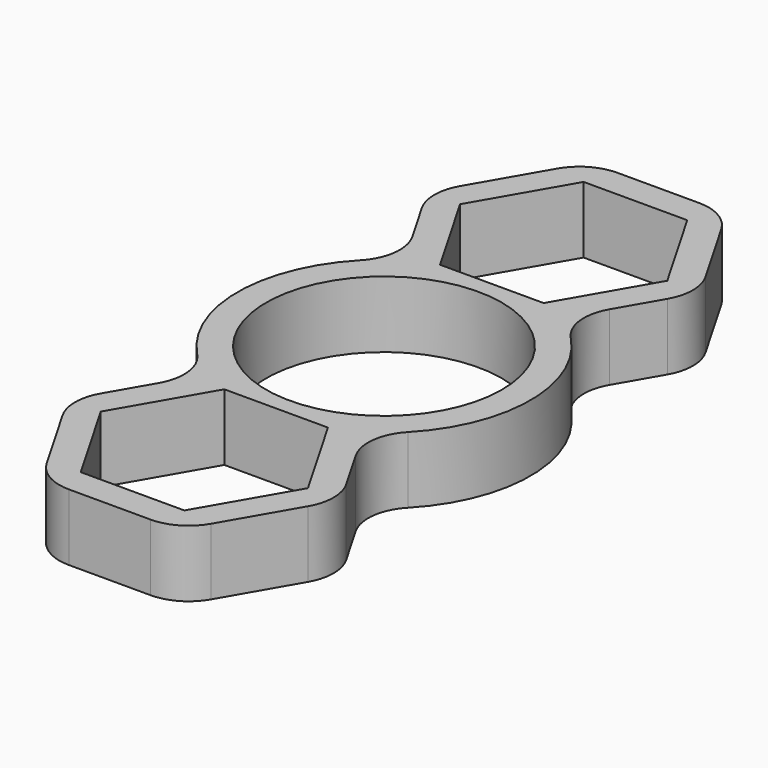
from build123d import *

# Parameters (mm, degrees)
F0_R     = 12.393392
F1_DEPTH = 7


with BuildPart() as f1:
    # F0 (on Top) → F1 (new body)
    with BuildSketch(Plane.XY):
        with BuildLine():
            Line((4.289713, 36.03), (-4.289713, 36.03))
            ThreePointArc((-4.289713, 36.03), (-6.789713, 35.360127), (-8.61984, 33.53))
            Line((-8.61984, 33.53), (-12.909552, 26.1))
            ThreePointArc((-12.909552, 26.1), (-13.579425, 23.6), (-12.909552, 21.1))
            Line((-12.909552, 21.1), (-10.346024, 16.659839))
            ThreePointArc((-10.346024, 16.659839), (-9.713283, 13.551609), (-11.07789, 10.688166))
            ThreePointArc((-11.07789, 10.688166), (-15.393392, 0), (-11.07789, -10.688166))
            ThreePointArc((-11.07789, -10.688166), (-9.713283, -13.551609), (-10.346024, -16.659839))
            Line((-10.346024, -16.659839), (-12.909552, -21.1))
            ThreePointArc((-12.909552, -21.1), (-13.579425, -23.6), (-12.909552, -26.1))
            Line((-12.909552, -26.1), (-8.61984, -33.53))
            ThreePointArc((-8.61984, -33.53), (-6.789713, -35.360127), (-4.289713, -36.03))
            Line((-4.289713, -36.03), (4.289713, -36.03))
            ThreePointArc((4.289713, -36.03), (6.789713, -35.360127), (8.61984, -33.53))
            Line((8.61984, -33.53), (12.909552, -26.1))
            ThreePointArc((12.909552, -26.1), (13.579425, -23.6), (12.909552, -21.1))
            Line((12.909552, -21.1), (10.346024, -16.659839))
            ThreePointArc((10.346024, -16.659839), (9.713283, -13.551609), (11.07789, -10.688166))
            ThreePointArc((11.07789, -10.688166), (15.393392, 0), (11.07789, 10.688166))
            ThreePointArc((11.07789, 10.688166), (9.713283, 13.551609), (10.346024, 16.659839))
            Line((10.346024, 16.659839), (12.909552, 21.1))
            ThreePointArc((12.909552, 21.1), (13.579425, 23.6), (12.909552, 26.1))
            Line((12.909552, 26.1), (8.61984, 33.53))
            ThreePointArc((8.61984, 33.53), (6.789713, 35.360127), (4.289713, 36.03))
        make_face()
        Polygon((5.444413, -33.03), (-5.444413, -33.03), (-10.888826, -23.6), (-5.444413, -14.17), (5.444413, -14.17), (10.888826, -23.6), align=None, mode=Mode.SUBTRACT)
        Circle(F0_R, mode=Mode.SUBTRACT)
        Polygon((-10.888826, 23.6), (-5.444413, 33.03), (5.444413, 33.03), (10.888826, 23.6), (5.444413, 14.17), (-5.444413, 14.17), align=None, mode=Mode.SUBTRACT)
    extrude(amount=F1_DEPTH)


solid = f1.part
